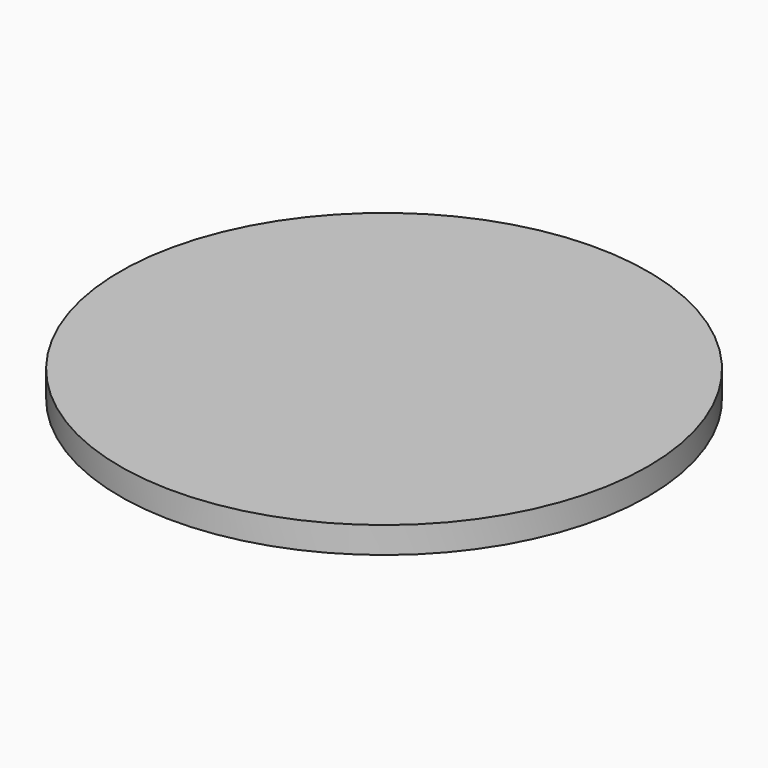
from build123d import *

# Parameters (mm, degrees)
CYLINDER_R     = 20
CYLINDER_DEPTH = 2


with BuildPart() as part:
    # Cylinder → Cylinder (new body)
    with BuildSketch(Plane.XY):
        Circle(CYLINDER_R)
    extrude(amount=CYLINDER_DEPTH)


solid = part.part
